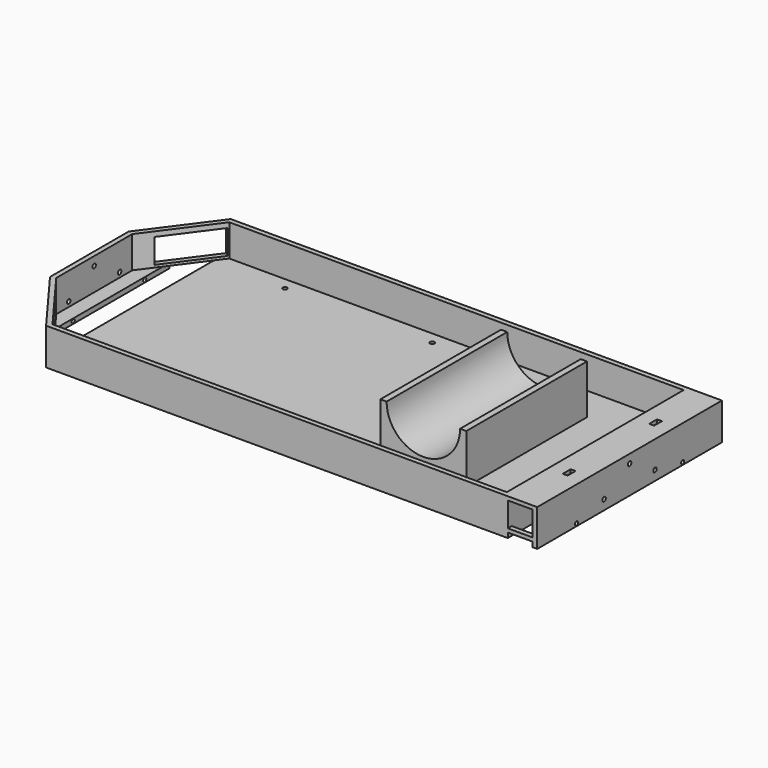
from build123d import *

# Parameters (mm, degrees)
F0_W      = 254
F0_H      = 119.38
F1_DEPTH  = 19.05
F2_T      = -2.54
F3_W      = 30.48
F3_H      = 12.7
F4_DEPTH  = 2.54
F5_W      = 12.7
F5_H      = 119.38
F6_DEPTH  = 2.54
F7_R      = 1.016
F8_DEPTH  = 25.4
F9_R      = 1.016
F10_DEPTH = 25.4
F11_W     = 30.48
F11_H     = 12.7
F12_DEPTH = 2.54
F13_W     = 12.7
F13_H     = 12.7
F14_DEPTH = 101.6
F15_R     = 1.1176
F16_DEPTH = 84.582
F17_R     = 1.1176
F18_DEPTH = 279.4
F20_DEPTH = 2.54
F21_W     = 44.45
F21_H     = 77.978
F22_DEPTH = 25.4
F23_R     = 19
F24_DEPTH = 77.978
F25_W     = 114.3
F25_H     = 1.905
F26_DEPTH = 12.7
F27_W     = 2.54
F27_H     = 114.3
F28_DEPTH = 16.51
F29_W     = 2.54
F29_H     = 5.08
F30_DEPTH = 25.4
F31_W     = 76.2
F31_H     = 13.97
F32_DEPTH = 5.08


with BuildPart() as f1:
    # F0 (on Top) → F1 (new body)
    with BuildSketch(Plane.XY):
        Rectangle(F0_W, F0_H)
        Polygon((-152.4, -25.4), (-127, -59.69), (-127, 59.69), (-152.4, 25.4), align=None)
    extrude(amount=F1_DEPTH)

    # F2
    f2_openings = [f1.faces().sort_by_distance(p)[0] for p in [
        (-9.181331, 0, 19.05),
    ]]
    offset(amount=F2_T, openings=f2_openings)

    # F3 (on face) → F4 (cut)
    with BuildSketch(Plane(origin=(-110.5541186891, -81.8919397697, 0), x_dir=(0.5952275506, -0.8035571933, 0), z_dir=(-0.8035571933, -0.5952275506, 0))):
        with Locations((-44.9023260044, 11.43)):
            Rectangle(F3_W, F3_H)
    extrude(amount=-F4_DEPTH, mode=Mode.SUBTRACT)

    # F5 (on face) → F6 (cut)
    with BuildSketch(Plane(origin=(0, 0, 0), x_dir=(1, 0, 0), z_dir=(0, 0, -1))):
        Polygon((-129.54, -56.261), (-129.54, 56.261), (-142.24, 39.116), (-142.24, -39.116), align=None)
        with Locations((118.11, 0)):
            Rectangle(F5_W, F5_H)
    extrude(amount=-F6_DEPTH, mode=Mode.SUBTRACT)

    # F7 (on face) → F8 (cut)
    with BuildSketch(Plane(origin=(-152.4, 0, 0), x_dir=(0, -1, 0), z_dir=(-1, 0, 0))):
        with Locations((-23.114, 1.27)):
            Circle(F7_R)
        with Locations((23.114, 1.27)):
            Circle(F7_R)
    extrude(amount=-F8_DEPTH, mode=Mode.SUBTRACT)

    # F9 (on face) → F10 (cut)
    with BuildSketch(Plane.YZ.offset(127)):
        with Locations((-34.29, 1.27)):
            Circle(F9_R)
        with Locations((34.29, 1.27)):
            Circle(F9_R)
    extrude(amount=-F10_DEPTH, mode=Mode.SUBTRACT)

    # F11 (on face) → F12 (cut)
    with BuildSketch(Plane(origin=(-110.5541186891, 81.8919397697, 0), x_dir=(-0.5952275506, -0.8035571933, 0), z_dir=(-0.8035571933, 0.5952275506, 0))):
        with Locations((44.9023260044, 10.16)):
            Rectangle(F11_W, F11_H)
    extrude(amount=-F12_DEPTH, mode=Mode.SUBTRACT)

    # F13 (on face) → F14 (cut)
    with BuildSketch(Plane.XZ.offset(59.69)):
        with Locations((118.11, 10.795)):
            Rectangle(F13_W, F13_H)
    extrude(amount=-F14_DEPTH, mode=Mode.SUBTRACT)

    # F15 (on Right) → F16 (cut, symmetric)
    with BuildSketch(Plane.YZ):
        with Locations((0, 11.811)):
            Circle(F15_R)
        with Locations((-17.78, 5.08)):
            Circle(F15_R)
        with Locations((17.78, 5.08)):
            Circle(F15_R)
    extrude(amount=F16_DEPTH, both=True, mode=Mode.SUBTRACT)

    # F17 (on face) → F18 (cut)
    with BuildSketch(Plane(origin=(-152.4, 0, 0), x_dir=(0, -1, 0), z_dir=(-1, 0, 0))):
        with Locations((-16.4471499023, 5.0268133191)):
            Circle(F17_R)
        with Locations((16.4471499023, 5.0268133191)):
            Circle(F17_R)
        with Locations((0, 14.5379047776)):
            Circle(F17_R)
    extrude(amount=-F18_DEPTH, mode=Mode.SUBTRACT)

    # F19 (on face) → F20 (cut)
    with BuildSketch(Plane.XY.offset(2.54)):
        with BuildLine():
            Line((-91.8904091179, -50.8), (-90.7728091179, -50.8))
            ThreePointArc((-90.7728091179, -50.8), (-91.1001465793, -50.0097374613), (-91.8904091179, -49.6824))
            Line((-91.8904091179, -49.6824), (-91.8904091179, -50.8))
        make_face()
        with BuildLine():
            ThreePointArc((-91.8904091179, -49.6824), (-92.6806716566, -51.5902625387), (-90.7728091179, -50.8))
            Line((-90.7728091179, -50.8), (-91.8904091179, -50.8))
            Line((-91.8904091179, -50.8), (-91.8904091179, -49.6824))
        make_face()
        with BuildLine():
            Line((-15.6904091179, -50.8), (-16.8080091179, -50.8))
            ThreePointArc((-16.8080091179, -50.8), (-15.6904091179, -51.9176), (-14.5728091179, -50.8))
            ThreePointArc((-14.5728091179, -50.8), (-14.9001465793, -50.0097374613), (-15.6904091179, -49.6824))
            Line((-15.6904091179, -49.6824), (-15.6904091179, -50.8))
        make_face()
        with BuildLine():
            ThreePointArc((-15.6904091179, -49.6824), (-16.4806716566, -50.0097374613), (-16.8080091179, -50.8))
            Line((-16.8080091179, -50.8), (-15.6904091179, -50.8))
            Line((-15.6904091179, -50.8), (-15.6904091179, -49.6824))
        make_face()
        with BuildLine():
            Line((-15.6904091179, 50.8), (-15.6904091179, 49.6824))
            ThreePointArc((-15.6904091179, 49.6824), (-14.9001465793, 50.0097374613), (-14.5728091179, 50.8))
            ThreePointArc((-14.5728091179, 50.8), (-15.6904091179, 51.9176), (-16.8080091179, 50.8))
            Line((-16.8080091179, 50.8), (-15.6904091179, 50.8))
        make_face()
        with BuildLine():
            ThreePointArc((-16.8080091179, 50.8), (-16.4806716566, 50.0097374613), (-15.6904091179, 49.6824))
            Line((-15.6904091179, 49.6824), (-15.6904091179, 50.8))
            Line((-15.6904091179, 50.8), (-16.8080091179, 50.8))
        make_face()
        with BuildLine():
            ThreePointArc((-90.7728091179, 50.8), (-92.6806716566, 51.5902625387), (-91.8904091179, 49.6824))
            Line((-91.8904091179, 49.6824), (-91.8904091179, 50.8))
            Line((-91.8904091179, 50.8), (-90.7728091179, 50.8))
        make_face()
        with BuildLine():
            Line((-91.8904091179, 50.8), (-91.8904091179, 49.6824))
            ThreePointArc((-91.8904091179, 49.6824), (-91.1001465793, 50.0097374613), (-90.7728091179, 50.8))
            Line((-90.7728091179, 50.8), (-91.8904091179, 50.8))
        make_face()
    extrude(amount=-F20_DEPTH, mode=Mode.SUBTRACT)

    # F21 (on face) → F22 (join)
    with BuildSketch(Plane.XY.offset(2.54)):
        with Locations((51.5379719436, 0)):
            Rectangle(F21_W, F21_H)
    extrude(amount=F22_DEPTH)

    # F23 (on face) → F24 (cut)
    with BuildSketch(Plane.XZ.offset(38.989)):
        with Locations((51.5379719436, 27.94)):
            Circle(F23_R)
    extrude(amount=-F24_DEPTH, mode=Mode.SUBTRACT)

    # F25 (on face) → F26 (join)
    with BuildSketch(Plane(origin=(124.46, 0, 0), x_dir=(0, -1, 0), z_dir=(-1, 0, 0))):
        with Locations((0, 18.0975)):
            Rectangle(F25_W, F25_H)
    extrude(amount=F26_DEPTH)

    # F27 (on face) → F28 (join)
    with BuildSketch(Plane.XY.offset(2.54)):
        with Locations((110.49, 0)):
            Rectangle(F27_W, F27_H)
    extrude(amount=F28_DEPTH)

    # F29 (on face) → F30 (cut)
    with BuildSketch(Plane.XY.offset(19.05)):
        with Locations((118.11, 27.94)):
            Rectangle(F29_W, F29_H)
        with Locations((118.11, -27.94)):
            Rectangle(F29_W, F29_H)
    extrude(amount=-F30_DEPTH, mode=Mode.SUBTRACT)

    # F31 (on face) → F32 (cut)
    with BuildSketch(Plane(origin=(109.22, 0, 0), x_dir=(0, -1, 0), z_dir=(-1, 0, 0))):
        with Locations((0, 9.525)):
            Rectangle(F31_W, F31_H)
    extrude(amount=-F32_DEPTH, mode=Mode.SUBTRACT)


solid = f1.part
